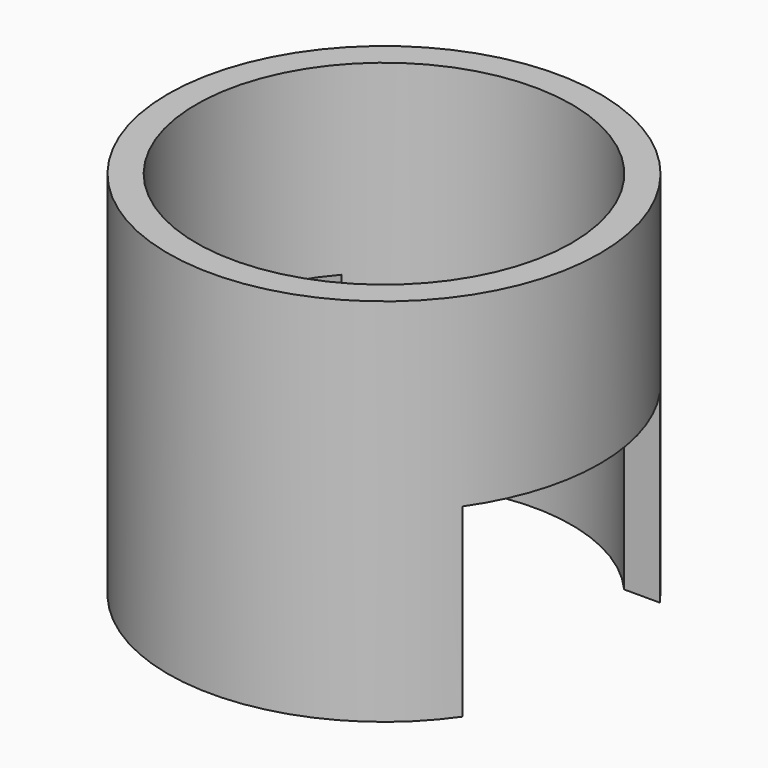
from build123d import *

# Parameters (mm, degrees)
F0_W     = 5.8166
F0_H     = 76.2
F2_W     = 50.8
F2_H     = 38.1
F3_DEPTH = 533.4


with BuildPart() as f1:
    # F0 (on Front) → F1 (revolve)
    with BuildSketch(Plane.XZ):
        with Locations((41.5417, 0)):
            Rectangle(F0_W, F0_H)
    revolve(axis=Axis((0, 0, 0), (0, 0, -1)))

    # F2 (on Right) → F3 (cut, symmetric)
    with BuildSketch(Plane.YZ):
        with Locations((0, -19.05)):
            Rectangle(F2_W, F2_H)
    extrude(amount=F3_DEPTH, both=True, mode=Mode.SUBTRACT)


solid = f1.part
